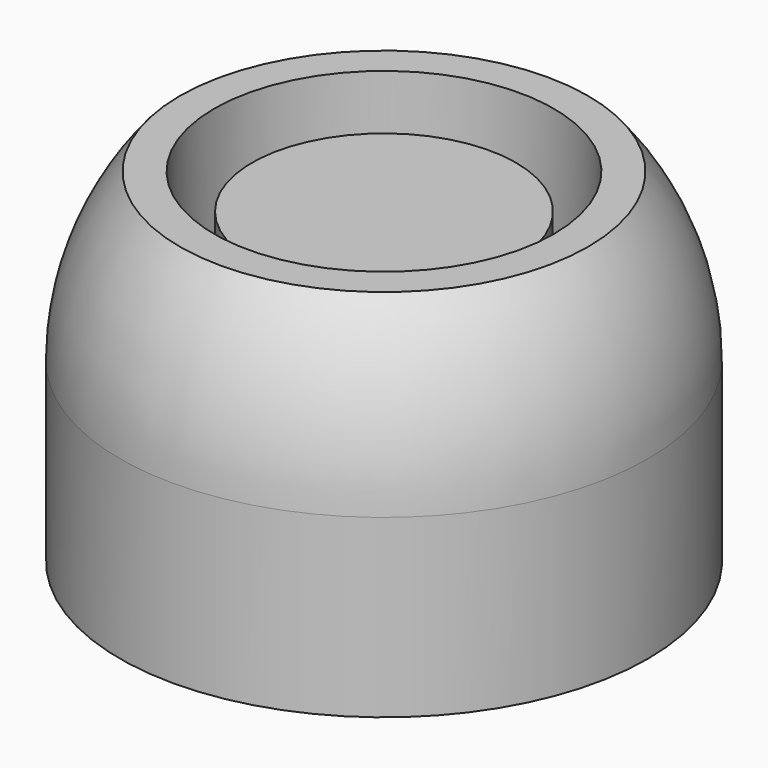
from build123d import *

# Parameters (mm, degrees)
F0_W = 7.62
F0_H = 2.54


with BuildPart() as f1:
    # F0 (on Front) → F1 (revolve)
    with BuildSketch(Plane.XZ):
        with BuildLine():
            Line((0, 2.54), (0, 0))
            Line((0, 0), (7.62, 0))
            Line((7.62, 0), (7.62, 2.54))
            ThreePointArc((7.62, 2.54), (7.175693, 5.103948), (5.894585, 7.368899))
            Line((5.894585, 7.368899), (4.9022, 7.368899))
            Line((4.9022, 7.368899), (4.9022, 3.81))
            Line((4.9022, 3.81), (3.81, 3.81))
            Line((3.81, 3.81), (3.81, 6.35))
            Line((3.81, 6.35), (0, 6.35))
            Line((0, 6.35), (0, 2.54))
        make_face()
        with Locations((3.81, -1.27)):
            Rectangle(F0_W, F0_H)
    revolve(axis=Axis((0, 0, 4.445), (0, 0, 1)))


with BuildPart() as f2_1:
    # F2: copy of F1
    add(f1.part.moved(Location((25.4, 0, 0))))


with BuildPart() as f3_1:
    # F3: copy of F1
    add(f1.part.moved(Location((0, 25.4, 0))))


with BuildPart() as f4_1:
    # F4: copy of F1
    add(f1.part.moved(Location((0, -25.4, 0))))


with BuildPart() as f5_1:
    # F5: copy of F1
    add(f1.part.moved(Location((-25.4, 0, 0))))


with BuildPart() as f6_1:
    # F6: copy of F2_1
    add(f2_1.part.moved(Location((0, 25.4, 0))))


with BuildPart() as f7_1:
    # F7: copy of F2_1
    add(f2_1.part.moved(Location((0, -25.4, 0))))


with BuildPart() as f8_1:
    # F8: copy of F5_1
    add(f5_1.part.moved(Location((0, -25.4, 0))))


with BuildPart() as f9_1:
    # F9: copy of F5_1
    add(f5_1.part.moved(Location((0, 25.4, 0))))


with BuildPart() as f10_1:
    # F10: copy of F5_1
    add(f5_1.part.moved(Location((-25.4, 0, 0))))


with BuildPart() as f11_1:
    # F11: copy of F2_1
    add(f2_1.part.moved(Location((25.4, 0, 0))))


solid = f1.part
